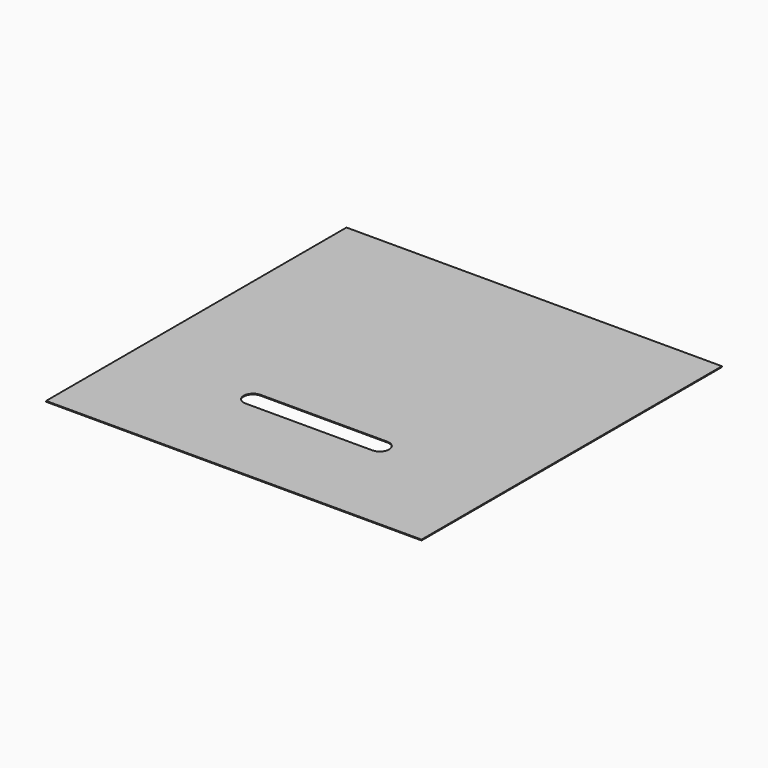
from build123d import *

# Parameters (mm, degrees)
SKETCH_W  = 80
SKETCH_H  = 80
PAD_DEPTH = 0.175


with BuildPart() as part:
    # Sketch → Pad (new body)
    with BuildSketch(Plane.XY):
        with Locations((40, -40)):
            Rectangle(SKETCH_W, SKETCH_H)
        with BuildLine():
            ThreePointArc((26.5, -56), (24.5, -58), (26.5, -60))
            Line((26.5, -60), (53.5, -60))
            ThreePointArc((53.5, -60), (55.5, -58), (53.5, -56))
            Line((26.5, -56), (53.5, -56))
        make_face(mode=Mode.SUBTRACT)
    extrude(amount=-PAD_DEPTH)


solid = part.part
